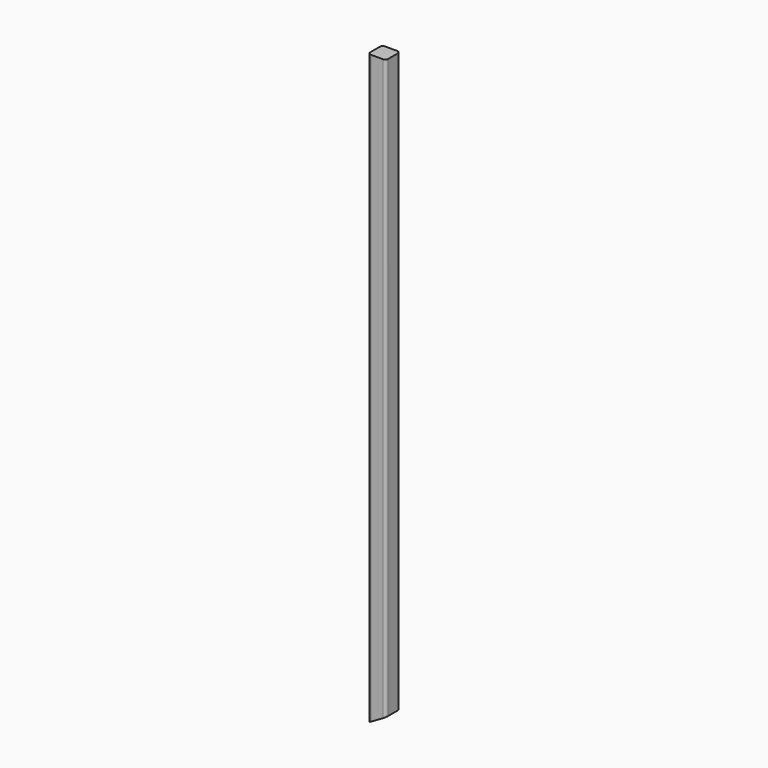
from build123d import *

# Parameters (mm, degrees)
F1_DEPTH = 1249.68
F3_DEPTH = 19.05


with BuildPart() as f1:
    # F0 (on Top) → F1 (new body)
    with BuildSketch(Plane.XY):
        with BuildLine():
            ThreePointArc((19.05, 12.7), (17.190128, 17.190128), (12.7, 19.05))
            Line((12.7, 19.05), (-12.7, 19.05))
            ThreePointArc((-12.7, 19.05), (-17.190128, 17.190128), (-19.05, 12.7))
            Line((-19.05, 12.7), (-19.05, -12.7))
            ThreePointArc((-19.05, -12.7), (-17.190128, -17.190128), (-12.7, -19.05))
            Line((-12.7, -19.05), (12.7, -19.05))
            ThreePointArc((12.7, -19.05), (17.190128, -17.190128), (19.05, -12.7))
            Line((19.05, -12.7), (19.05, 12.7))
        make_face()
    extrude(amount=F1_DEPTH)

    # F2 (on Front) → F3 (cut, symmetric)
    with BuildSketch(Plane.XZ):
        Polygon((19.05, 22.295416), (-19.566793, 0), (19.05, 0), align=None)
    extrude(amount=F3_DEPTH, both=True, mode=Mode.SUBTRACT)


solid = f1.part
